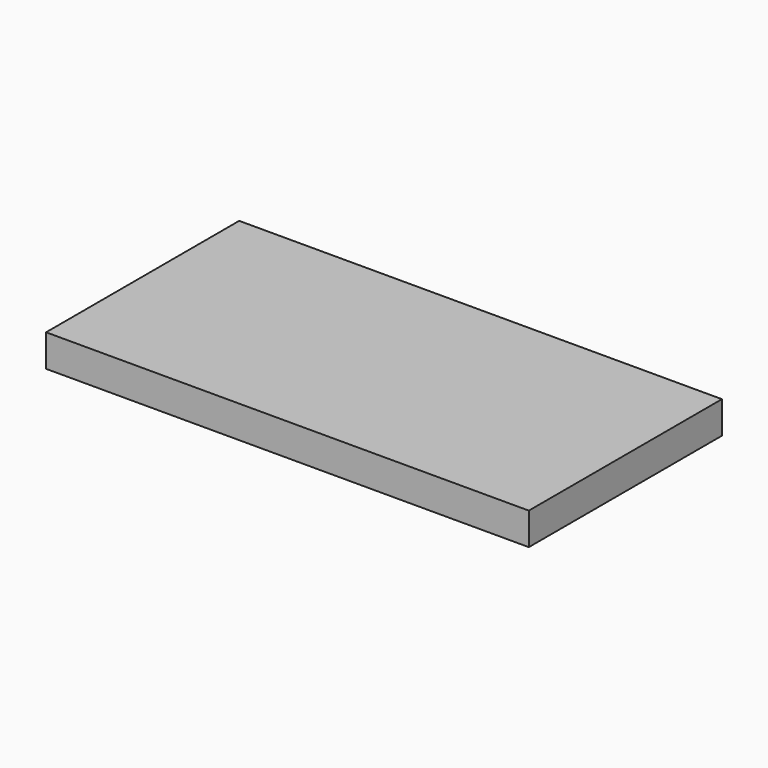
from build123d import *

# Parameters (mm, degrees)
SKETCH_W  = 150
SKETCH_H  = 75
PAD_DEPTH = 10


with BuildPart() as part:
    # Sketch → Pad (new body)
    with BuildSketch(Plane.XY):
        with Locations((75, -37.5)):
            Rectangle(SKETCH_W, SKETCH_H)
    extrude(amount=-PAD_DEPTH)


solid = part.part
